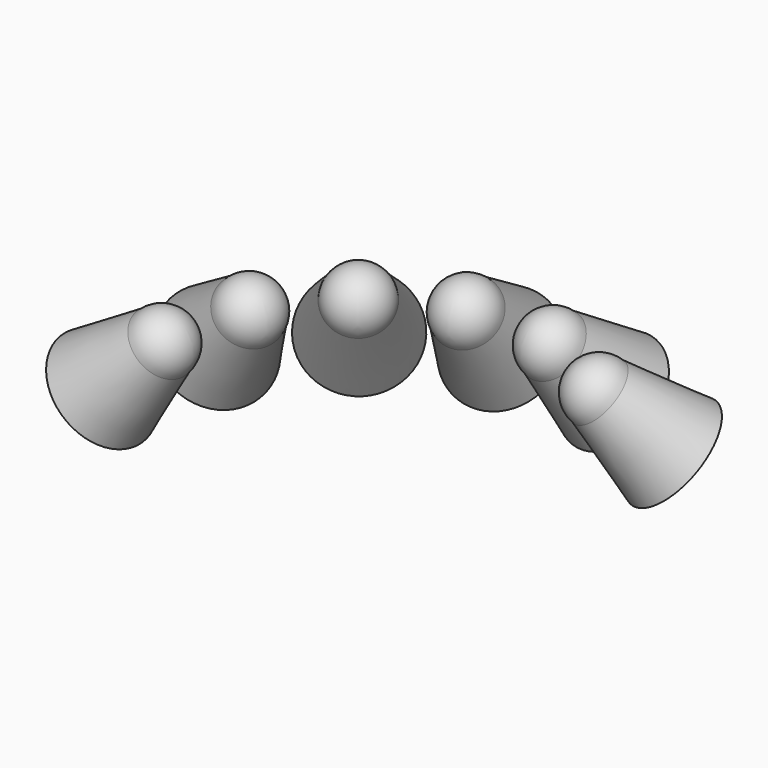
from build123d import *

# Parameters (mm, degrees)
FUSION003003005_PLACEMENT_ANGLE = 45
ARRAY002_COUNT                  = 6
ARRAY002_ANGLE                  = 130
ARRAY002_PLACEMENT_ANGLE        = 49
CLONE_PLACEMENT_ANGLE           = 181


with BuildPart() as cone009:
    # Cone009 → Cone009 (revolve)
    with BuildSketch(Plane(origin=(0, 0, 0), x_dir=(-1, 0, 0), z_dir=(0, -1, 0))):
        Polygon((0, 0), (30, 0), (50, 80), (0, 80), align=None)
    revolve(axis=Axis((0, 0, 0), (0, 0, -1)))


with BuildPart() as array003:
    # Sphere003 → Sphere003 (revolve)
    with BuildSketch(Plane.XZ):
        with BuildLine():
            ThreePointArc((0, -30), (30, 0), (0, 30))
            Line((0, 30), (0, -30))
        make_face()
    revolve(axis=Axis((0, 0, 0), (0, 0, 1)))

    # Fusion003003005: union Cone009
    add(cone009.part)


with BuildPart() as array003_1:
    # Fusion003003005 placement: moved
    add(array003.part.moved(Location((-185, 0, 0))).rotate(Axis((-185, 0, 0), (0, 1, 0)), FUSION003003005_PLACEMENT_ANGLE))

    # Array002: Array003 ×6 about axis
    array002_axis = Axis((0, 0, 0), (0, 0, 1))


with BuildPart() as array003_2:
    add(array003_1.part)
    for i in range(1, ARRAY002_COUNT):
        add(array003_1.part.rotate(array002_axis, i * ARRAY002_ANGLE / (ARRAY002_COUNT - 1)))


with BuildPart() as array003_3:
    # Array002 placement: moved
    add(array003_2.part.moved(Location((0, 0, 1200))).rotate(Axis((0, 0, 1200), (0, 0, 1)), ARRAY002_PLACEMENT_ANGLE))


with BuildPart() as array003_4:
    # Clone placement: moved
    add(array003_3.part.rotate(Axis((0, 0, 0), (0, 0, 1)), CLONE_PLACEMENT_ANGLE))


solid = array003_4.part
